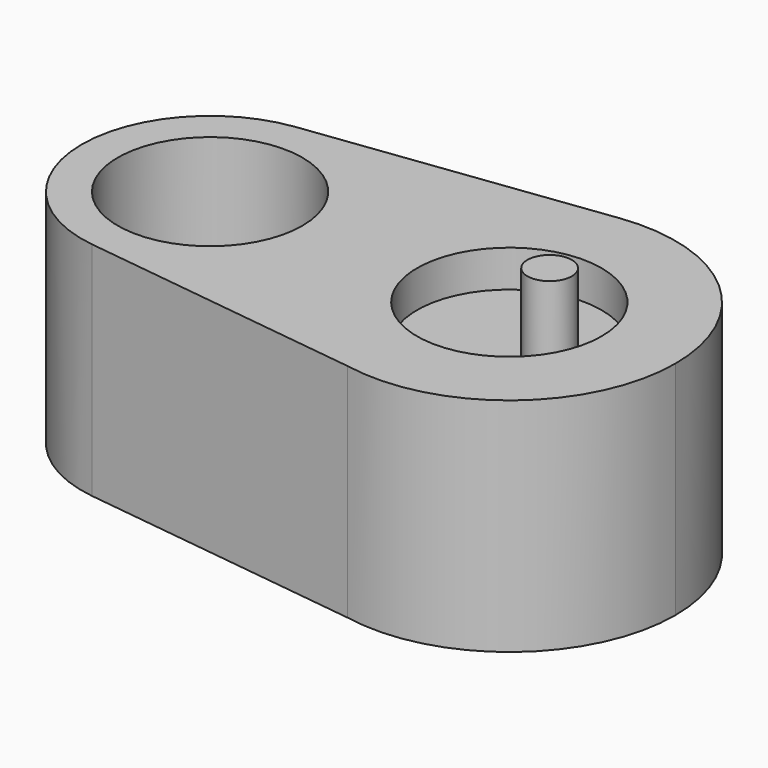
from build123d import *

# Parameters (mm, degrees)
F0_R     = 25
F1_DEPTH = 30
F2_DEPTH = 20
F3_R     = 6.010222
F4_DEPTH = 25


with BuildPart() as f1:
    # F0 (on Top) → F1 (new body, symmetric)
    with BuildSketch(Plane.XY):
        with BuildLine():
            ThreePointArc((-8.415959, -44.206013), (28.690432, -34.667839), (45, 0))
            ThreePointArc((45, 0), (29.735014, 33.776159), (-5.703508, 44.637092))
            ThreePointArc((-5.703508, 44.637092), (-44.979042, 1.373246), (-8.415959, -44.206013))
        make_face()
        Circle(F0_R, mode=Mode.SUBTRACT)
        with BuildLine():
            ThreePointArc((-8.415959, -44.206013), (-44.979042, 1.373246), (-5.703508, 44.637092))
            Line((-5.703508, 44.637092), (-85.454094, 34.446954))
            ThreePointArc((-85.454094, 34.446954), (-58.105781, 26.065448), (-46.325617, 0))
            ThreePointArc((-46.325617, 0), (-58.091714, -26.053058), (-85.416903, -34.451686))
            Line((-85.416903, -34.451686), (-8.415959, -44.206013))
        make_face()
        with BuildLine():
            ThreePointArc((-46.325617, 0), (-58.105781, 26.065448), (-85.454094, 34.446954))
            ThreePointArc((-85.454094, 34.446954), (-115.77964, -0.018745), (-85.416903, -34.451686))
            ThreePointArc((-85.416903, -34.451686), (-58.091714, -26.053058), (-46.325617, 0))
        make_face()
        with Locations((-81.052631, 0)):
            Circle(F0_R, mode=Mode.SUBTRACT)
    extrude(amount=F1_DEPTH, both=True)


with BuildPart() as f2:
    # F0 (on Top) → F2 (new body)
    with BuildSketch(Plane.XY):
        Circle(F0_R)
    extrude(amount=F2_DEPTH)

    # F3 (on face) → F4 (join)
    with BuildSketch(Plane.XY.offset(20)):
        with Locations((14.889445, -4.963221)):
            Circle(F3_R)
    extrude(amount=F4_DEPTH)


solid = Compound([f1.part, f2.part])
